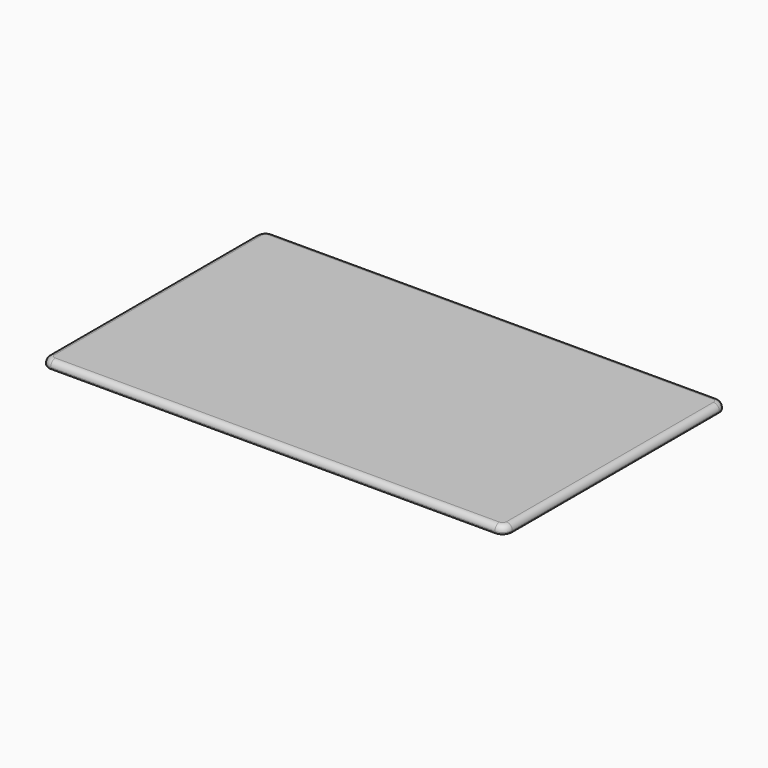
from build123d import *

# Parameters (mm, degrees)
F1_DEPTH = 25.4
F2_R     = 3.175
F3_R     = 19.05


with BuildPart() as f1:
    # F0 (on Top) → F1 (new body)
    with BuildSketch(Plane.XY):
        with BuildLine():
            ThreePointArc((0, 31.75), (9.29936, 9.29936), (31.75, 0))
            Line((31.75, 0), (1492.25, 0))
            ThreePointArc((1492.25, 0), (1514.70064, 9.29936), (1524, 31.75))
            Line((1524, 31.75), (1524, 882.65))
            ThreePointArc((1524, 882.65), (1514.70064, 905.10064), (1492.25, 914.4))
            Line((1492.25, 914.4), (31.75, 914.4))
            ThreePointArc((31.75, 914.4), (9.29936, 905.10064), (0, 882.65))
            Line((0, 882.65), (0, 31.75))
        make_face()
    extrude(amount=F1_DEPTH)

    # F2
    f2_edges = [f1.edges().sort_by_distance(p)[0] for p in [
        (762, 0, 0),
    ]]
    fillet(f2_edges, radius=F2_R)

    # F3
    f3_edges = [f1.edges().sort_by_distance(p)[0] for p in [
        (762, 0, 25.4),
    ]]
    fillet(f3_edges, radius=F3_R)


solid = f1.part
